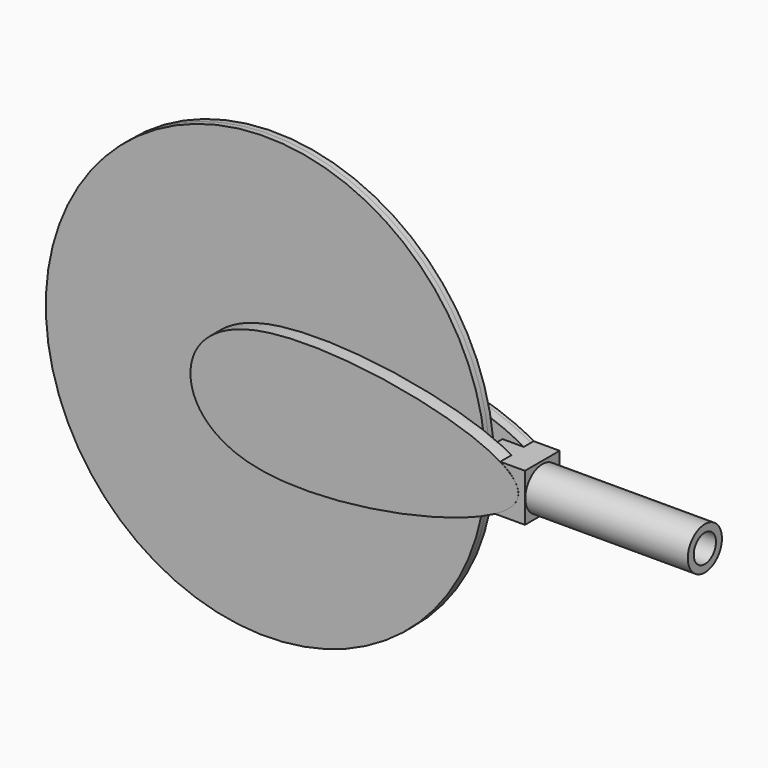
from build123d import *

# Parameters (mm, degrees)
F0_R           = 5.08
F1_DEPTH       = 4.064
F1_DEPTH_BACK  = 4.064
F2_R           = 5.8752352212
F3_DEPTH       = 1.3208
F3_DEPTH_BACK  = 1.3208
F4_R           = 2.3646683211
F5_DEPTH       = 2.9464
F5_DEPTH_BACK  = 2.3622
F6_R           = 48.9464690829
F6_R_2         = 3.860163888
F7_DEPTH       = 1.1684
F7_DEPTH_BACK  = 1.1684
F9_START       = 1.778
F9_DEPTH       = 3.0988
F10_R          = 5.08
F11_DEPTH      = 0.762
F11_DEPTH_BACK = 2.032
F12_W          = 10.5080939829
F12_H          = 10.5942287482
F13_DEPTH      = 4.8514
F13_DEPTH_BACK = 4.8006
F15_START      = 57.658
F14_R          = 4.7471061373
F15_DEPTH      = 39.116
F16_R          = 3.0942155248
F17_DEPTH      = 25.4
F17_DEPTH_BACK = 29.718


with BuildPart() as f1:
    # F0 (on Front) → F1 (new body, two sides)
    with BuildSketch(Plane.XZ) as f1_sk:
        Circle(F0_R)
    extrude(amount=F1_DEPTH)
    extrude(f1_sk.sketch, amount=-F1_DEPTH_BACK)

    # F2 (on Front) → F3 (cut, two sides)
    with BuildSketch(Plane.XZ) as f3_sk:
        Circle(F2_R)
    extrude(amount=-F3_DEPTH, mode=Mode.SUBTRACT)
    extrude(f3_sk.sketch, amount=F3_DEPTH_BACK, mode=Mode.SUBTRACT)

    # F10 (on face) → F11 (join, two sides)
    with BuildSketch(Plane(origin=(0, 4.064, 0), x_dir=(-1, 0, 0), z_dir=(0, 1, 0))) as f11_sk:
        with BuildLine():
            add(Edge.make_bspline(
                [(13.697671704, -0.704160897), (13.5123292982, -6.1635970694), (1.3861584042, -20.0308785518), (-57.7381328093, -9.4549841426), (-62.2265200764, 7.2283414082), (2.29322497, 21.2692963323), (13.8873325189, 4.8824781076), (13.697671704, -0.704160897)],
                knots=[0, 0, 0, 0, 0.1618469158, 0.4436008404, 0.5480877279, 0.8343821113, 1, 1, 1, 1], degree=3))
        make_face()
        Circle(F10_R, mode=Mode.SUBTRACT)
    extrude(amount=F11_DEPTH)
    extrude(f11_sk.sketch, amount=-F11_DEPTH_BACK)


with BuildPart() as f5:
    # F4 (on Front) → F5 (new body, two sides)
    with BuildSketch(Plane.XZ) as f5_sk:
        Circle(F4_R)
    extrude(amount=-F5_DEPTH)
    extrude(f5_sk.sketch, amount=F5_DEPTH_BACK)


with BuildPart() as f7:
    # F6 (on Front) → F7 (new body, two sides)
    with BuildSketch(Plane.XZ) as f7_sk:
        Circle(F6_R)
        Circle(F6_R_2, mode=Mode.SUBTRACT)
    extrude(amount=-F7_DEPTH)
    extrude(f7_sk.sketch, amount=F7_DEPTH_BACK)


with BuildPart() as f9:
    # F8 (on Front) → F9 (new body)
    with BuildSketch(Plane.XZ.offset(F9_START)):
        with BuildLine():
            add(Edge.make_bspline(
                [(-13.7894945219, 0), (-13.6041521161, 5.4594361724), (-1.4779812221, 19.3267176548), (57.6463099913, 8.7508232457), (62.1346972584, -7.9325023052), (-2.3850477879, -21.9734572293), (-13.9791553368, -5.5866390045), (-13.7894945219, 0)],
                knots=[0, 0, 0, 0, 0.1618469158, 0.4436008404, 0.5480877279, 0.8343821113, 1, 1, 1, 1], degree=3))
        make_face()
    extrude(amount=F9_DEPTH)


with BuildPart() as f13:
    # F12 (on Front) → F13 (new body, two sides)
    with BuildSketch(Plane.XZ) as f13_sk:
        with Locations((55.3675871342, -0.5931041669)):
            Rectangle(F12_W, F12_H)
    extrude(amount=F13_DEPTH)
    extrude(f13_sk.sketch, amount=-F13_DEPTH_BACK)


with BuildPart() as f15:
    # F14 (on Right) → F15 (new body)
    with BuildSketch(Plane.YZ.offset(F15_START)):
        with Locations((0, -0.6982042105)):
            Circle(F14_R)
    extrude(amount=F15_DEPTH)

    # F16 (on face) → F17 (cut, two sides)
    with BuildSketch(Plane.YZ.offset(96.774)) as f17_sk:
        with Locations((0, -0.6982042105)):
            Circle(F16_R)
    extrude(amount=F17_DEPTH, mode=Mode.SUBTRACT)
    extrude(f17_sk.sketch, amount=-F17_DEPTH_BACK, mode=Mode.SUBTRACT)


solid = Compound([f1.part, f5.part, f7.part, f9.part, f13.part, f15.part])
